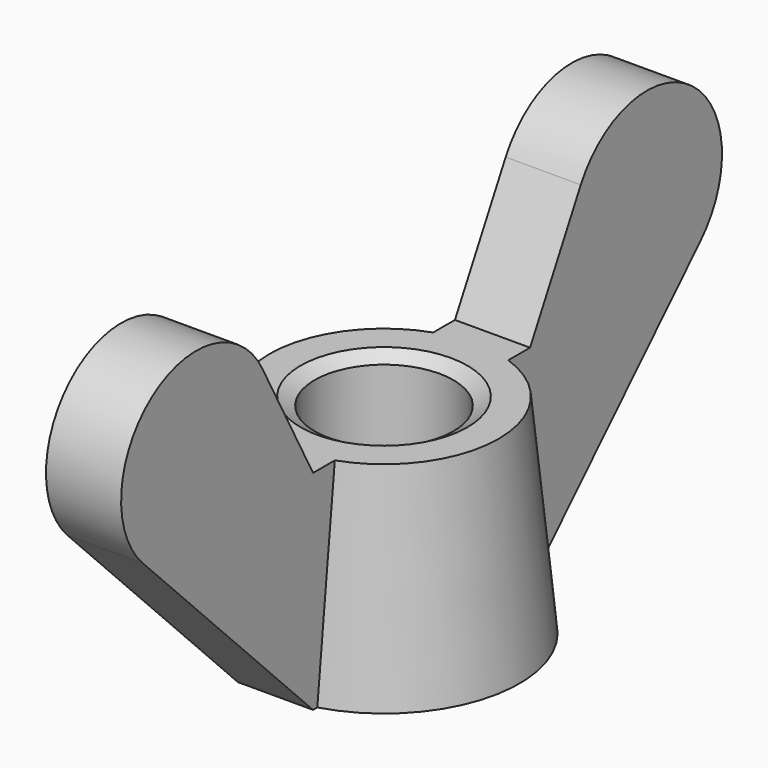
from build123d import *

# Parameters (mm, degrees)
PAD_DEPTH = 1.8


with BuildPart() as pad:
    # Sketch001 → Pad (new body, symmetric)
    with BuildSketch(Plane.YZ):
        with BuildLine():
            Line((4, 0), (4, 10))
            Line((4, 10), (6.5, 10))
            Line((6.5, 10), (9.53921, 15.635917))
            ThreePointArc((16.703013, 10.339192), (16.175328, 17.118372), (9.53921, 15.635917))
            Line((6.5, 0), (16.703013, 10.339192))
            Line((4, 0), (6.5, 0))
        make_face()
        with BuildLine():
            Line((-16.703013, 10.339192), (-6.5, 0))
            Line((-6.5, 0), (-4, 0))
            Line((-4, 0), (-4, 10))
            Line((-4, 10), (-6.5, 10))
            Line((-6.5, 10), (-9.53921, 15.635917))
            ThreePointArc((-9.53921, 15.635917), (-16.175328, 17.118372), (-16.703013, 10.339192))
        make_face()
    extrude(amount=PAD_DEPTH, both=True)


with BuildPart() as obj1:
    # Sketch → Revolution (revolve)
    with BuildSketch(Plane.YZ):
        Polygon((4, 0), (3.325, 0.389711), (3.325, 9.610289), (4, 10), (5.5, 10), (6.5, 0), align=None)
    revolve(axis=Axis((0, 0, 0), (0, 0, 1)))

    # Fusion: union Pad
    add(pad.part)


solid = obj1.part
